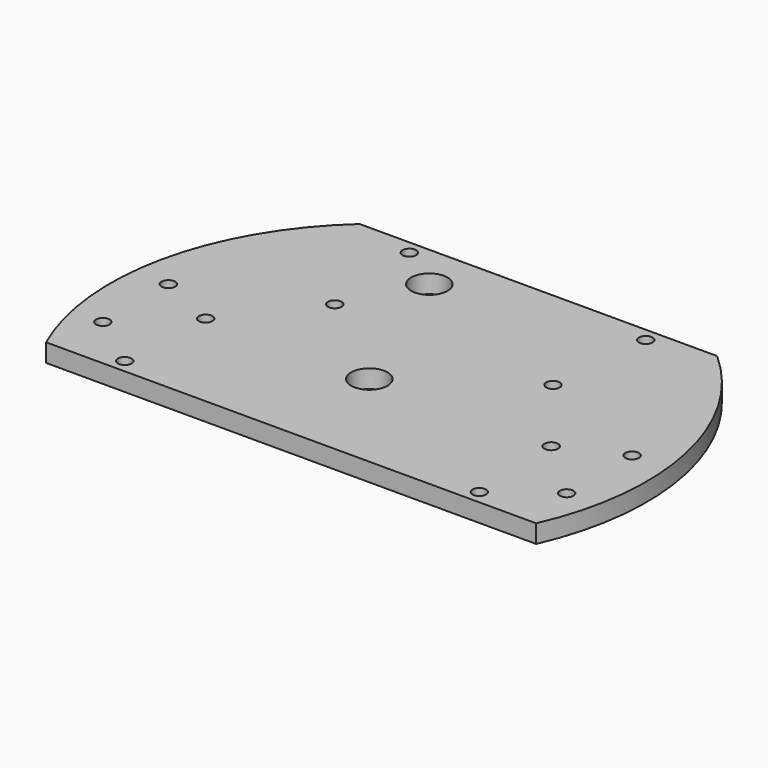
from build123d import *

# Parameters (mm, degrees)
CYLINDER1538_R     = 1.5
CYLINDER1538_DEPTH = 100
CYLINDER1537_R     = 1.5
CYLINDER1537_DEPTH = 100
CYLINDER1532_R     = 1.5
CYLINDER1532_DEPTH = 32
CYLINDER1531_R     = 1.5
CYLINDER1531_DEPTH = 32
BOX520_W           = 200
BOX520_H           = 100
BOX520_DEPTH       = 100
BOX518_W           = 200
BOX518_H           = 100
BOX518_DEPTH       = 100
CYLINDER1127_R     = 4
CYLINDER1127_DEPTH = 100
CYLINDER1128_R     = 4
CYLINDER1128_DEPTH = 100
CYLINDER1129_R     = 4
CYLINDER1129_DEPTH = 100
CYLINDER1125_R     = 4
CYLINDER1125_DEPTH = 100
CYLINDER1130_R     = 4
CYLINDER1130_DEPTH = 100
CYLINDER1126_R     = 4
CYLINDER1126_DEPTH = 100
CYLINDER1492_R     = 1.5
CYLINDER1492_DEPTH = 100
CYLINDER1493_R     = 1.5
CYLINDER1493_DEPTH = 100
CYLINDER1494_R     = 1.5
CYLINDER1494_DEPTH = 100
CYLINDER1495_R     = 1.5
CYLINDER1495_DEPTH = 100
CYLINDER1496_R     = 1.5
CYLINDER1496_DEPTH = 100
CYLINDER1497_R     = 1.5
CYLINDER1497_DEPTH = 100
CYLINDER1498_R     = 1.5
CYLINDER1498_DEPTH = 100
CYLINDER1491_R     = 1.5
CYLINDER1491_DEPTH = 100
CYLINDER1490_R     = 59
CYLINDER1490_DEPTH = 4


with BuildPart() as obj1:
    # Cylinder1538 → Cylinder1538 (new body)
    with BuildSketch(Plane(origin=(14, 0, -60), x_dir=(1, 0, 0), z_dir=(0, 0, 1))):
        Circle(CYLINDER1538_R)
    extrude(amount=CYLINDER1538_DEPTH)


with BuildPart() as obj2:
    # Cylinder1537 → Cylinder1537 (new body)
    with BuildSketch(Plane(origin=(90, 0, -60), x_dir=(1, 0, 0), z_dir=(0, 0, 1))):
        Circle(CYLINDER1537_R)
    extrude(amount=CYLINDER1537_DEPTH)

    # Compound889: union obj1
    add(obj1.part)


with BuildPart() as obj3:
    # Cylinder1532 → Cylinder1532 (new body)
    with BuildSketch(Plane(origin=(78, 41, -42), x_dir=(1, 0, 0), z_dir=(0, 0, 1))):
        Circle(CYLINDER1532_R)
    extrude(amount=CYLINDER1532_DEPTH)


with BuildPart() as compound901:
    # Cylinder1531 → Cylinder1531 (new body)
    with BuildSketch(Plane(origin=(26, 41, -42), x_dir=(1, 0, 0), z_dir=(0, 0, 1))):
        Circle(CYLINDER1531_R)
    extrude(amount=CYLINDER1531_DEPTH)

    # Compound901: union obj3
    add(obj3.part)


with BuildPart() as krychle520:
    # Box520 → Box520 (new body)
    with BuildSketch(Plane(origin=(-60, 44, -90), x_dir=(1, 0, 0), z_dir=(0, 0, 1))):
        with Locations((100, 50)):
            Rectangle(BOX520_W, BOX520_H)
    extrude(amount=BOX520_DEPTH)


with BuildPart() as krychle518:
    # Box518 → Box518 (new body)
    with BuildSketch(Plane(origin=(-60, -124, -90), x_dir=(1, 0, 0), z_dir=(0, 0, 1))):
        with Locations((100, 50)):
            Rectangle(BOX518_W, BOX518_H)
    extrude(amount=BOX518_DEPTH)


with BuildPart() as obj4:
    # Cylinder1127 → Cylinder1127 (new body)
    with BuildSketch(Plane(origin=(-36, 34, -90), x_dir=(1, 0, 0), z_dir=(0, 0, 1))):
        Circle(CYLINDER1127_R)
    extrude(amount=CYLINDER1127_DEPTH)


with BuildPart() as obj5:
    # Cylinder1128 → Cylinder1128 (new body)
    with BuildSketch(Plane(origin=(-36, -34, -90), x_dir=(1, 0, 0), z_dir=(0, 0, 1))):
        Circle(CYLINDER1128_R)
    extrude(amount=CYLINDER1128_DEPTH)


with BuildPart() as obj6:
    # Cylinder1129 → Cylinder1129 (new body)
    with BuildSketch(Plane(origin=(50, 0, -90), x_dir=(1, 0, 0), z_dir=(0, 0, 1))):
        Circle(CYLINDER1129_R)
    extrude(amount=CYLINDER1129_DEPTH)


with BuildPart() as obj7:
    # Cylinder1125 → Cylinder1125 (new body)
    with BuildSketch(Plane(origin=(36, 34, -90), x_dir=(1, 0, 0), z_dir=(0, 0, 1))):
        Circle(CYLINDER1125_R)
    extrude(amount=CYLINDER1125_DEPTH)


with BuildPart() as obj8:
    # Cylinder1130 → Cylinder1130 (new body)
    with BuildSketch(Plane(origin=(36, -34, -90), x_dir=(1, 0, 0), z_dir=(0, 0, 1))):
        Circle(CYLINDER1130_R)
    extrude(amount=CYLINDER1130_DEPTH)


with BuildPart() as obj9:
    # Cylinder1126 → Cylinder1126 (new body)
    with BuildSketch(Plane(origin=(-50, 0, -90), x_dir=(1, 0, 0), z_dir=(0, 0, 1))):
        Circle(CYLINDER1126_R)
    extrude(amount=CYLINDER1126_DEPTH)

    # Compound896: union obj4, obj5, obj6, obj7, obj8
    add(obj4.part)
    add(obj5.part)
    add(obj6.part)
    add(obj7.part)
    add(obj8.part)


with BuildPart() as obj10:
    # Cylinder1492 → Cylinder1492 (new body)
    with BuildSketch(Plane(origin=(103, 6, -60), x_dir=(1, 0, 0), z_dir=(0, 0, 1))):
        Circle(CYLINDER1492_R)
    extrude(amount=CYLINDER1492_DEPTH)


with BuildPart() as obj11:
    # Cylinder1493 → Cylinder1493 (new body)
    with BuildSketch(Plane(origin=(76, 18, -60), x_dir=(1, 0, 0), z_dir=(0, 0, 1))):
        Circle(CYLINDER1493_R)
    extrude(amount=CYLINDER1493_DEPTH)


with BuildPart() as obj12:
    # Cylinder1494 → Cylinder1494 (new body)
    with BuildSketch(Plane(origin=(91, -21, -60), x_dir=(1, 0, 0), z_dir=(0, 0, 1))):
        Circle(CYLINDER1494_R)
    extrude(amount=CYLINDER1494_DEPTH)


with BuildPart() as obj13:
    # Cylinder1495 → Cylinder1495 (new body)
    with BuildSketch(Plane(origin=(13, -21, -60), x_dir=(1, 0, 0), z_dir=(0, 0, 1))):
        Circle(CYLINDER1495_R)
    extrude(amount=CYLINDER1495_DEPTH)


with BuildPart() as obj14:
    # Cylinder1496 → Cylinder1496 (new body)
    with BuildSketch(Plane(origin=(28, 18, -60), x_dir=(1, 0, 0), z_dir=(0, 0, 1))):
        Circle(CYLINDER1496_R)
    extrude(amount=CYLINDER1496_DEPTH)


with BuildPart() as obj15:
    # Cylinder1497 → Cylinder1497 (new body)
    with BuildSketch(Plane(origin=(1, -12, -60), x_dir=(1, 0, 0), z_dir=(0, 0, 1))):
        Circle(CYLINDER1497_R)
    extrude(amount=CYLINDER1497_DEPTH)


with BuildPart() as obj16:
    # Cylinder1498 → Cylinder1498 (new body)
    with BuildSketch(Plane(origin=(1, 6, -60), x_dir=(1, 0, 0), z_dir=(0, 0, 1))):
        Circle(CYLINDER1498_R)
    extrude(amount=CYLINDER1498_DEPTH)


with BuildPart() as obj17:
    # Cylinder1491 → Cylinder1491 (new body)
    with BuildSketch(Plane(origin=(103, -12, -60), x_dir=(1, 0, 0), z_dir=(0, 0, 1))):
        Circle(CYLINDER1491_R)
    extrude(amount=CYLINDER1491_DEPTH)

    # Compound893: union obj10, obj11, obj12, obj13, obj14, obj15, obj16
    add(obj10.part)
    add(obj11.part)
    add(obj12.part)
    add(obj13.part)
    add(obj14.part)
    add(obj15.part)
    add(obj16.part)


with BuildPart() as cut526:
    # Cylinder1490 → Cylinder1490 (new body)
    with BuildSketch(Plane(origin=(52, 0, -26), x_dir=(1, 0, 0), z_dir=(0, 0, 1))):
        Circle(CYLINDER1490_R)
    extrude(amount=CYLINDER1490_DEPTH)

    # Cut513: cut obj17
    add(obj17.part, mode=Mode.SUBTRACT)

    # Cut514: cut obj9
    add(obj9.part, mode=Mode.SUBTRACT)

    # Cut520: cut Krychle518
    add(krychle518.part, mode=Mode.SUBTRACT)

    # Cut522: cut Krychle520
    add(krychle520.part, mode=Mode.SUBTRACT)

    # Cut523: cut Compound901
    add(compound901.part, mode=Mode.SUBTRACT)

    # Cut526: cut obj2
    add(obj2.part, mode=Mode.SUBTRACT)


solid = cut526.part
